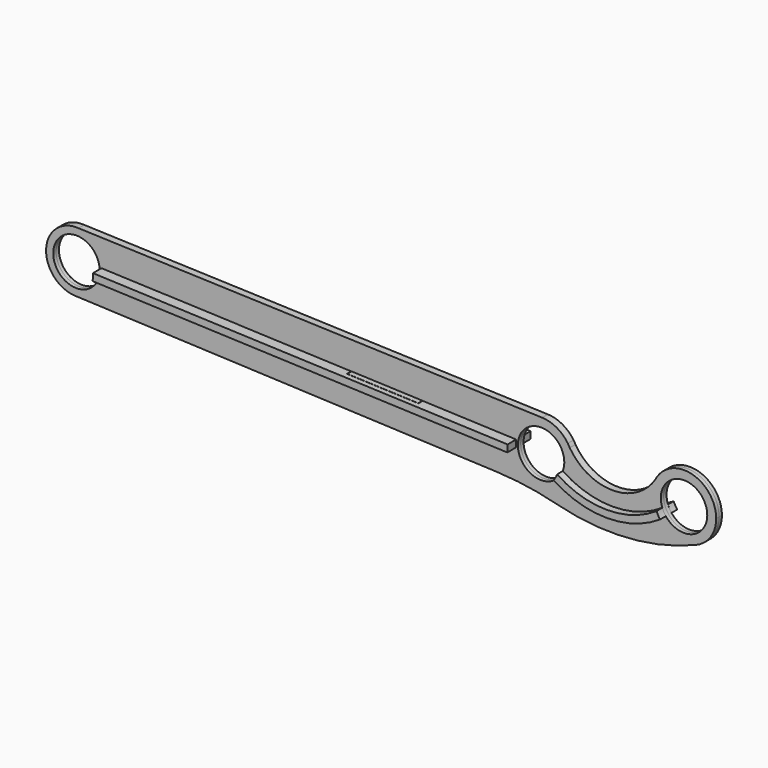
from build123d import *

# Parameters (mm, degrees)
F0_R          = 32.5
F1_DEPTH      = 5
F1_DEPTH_BACK = 5
F5_DEPTH      = 25
F6_DEPTH      = 5
F6_DEPTH_BACK = 5
F4_W          = 99.4
F4_H          = 17.5
F8_DEPTH      = 10


with BuildPart() as f1:
    # F0 (on Front) → F1 (new body, two sides)
    with BuildSketch(Plane.XZ) as f1_sk:
        with BuildLine():
            ThreePointArc((15.2901799608, 39.6542607643), (7.6425019123, 41.0632246714), (0, 42.5))
            ThreePointArc((0, 42.5), (-42.5, 0), (0, -42.5))
            ThreePointArc((0, -42.5), (4.6811187295, -41.9725217651), (9.3634275195, -41.4557140222))
            ThreePointArc((9.3634275195, -41.4557140222), (33.1978588886, -26.535865639), (42.5, 0))
            ThreePointArc((42.5, 0), (35.0434205546, 24.0459700539), (15.2901799608, 39.6542607643))
        make_face()
        Circle(F0_R, mode=Mode.SUBTRACT)
        with BuildLine():
            ThreePointArc((2.9352828897, 42.3985154735), (1.4685183648, 42.474621291), (0, 42.5))
            Line((0, 42.5), (2.9352828897, 42.3985154735))
        make_face()
        with BuildLine():
            Line((2.9352828897, 42.3985154735), (0, 42.5))
            ThreePointArc((0, 42.5), (7.6425019123, 41.0632246714), (15.2901799608, 39.6542607643))
            ThreePointArc((15.2901799608, 39.6542607643), (9.2154548182, 41.488858655), (2.9352828897, 42.3985154735))
        make_face()
        with BuildLine():
            ThreePointArc((9.3634275195, -41.4557140222), (4.6811187295, -41.9725217651), (0, -42.5))
            ThreePointArc((0, -42.5), (4.710740603, -42.238121679), (9.3634275195, -41.4557140222))
        make_face()
        with BuildLine():
            ThreePointArc((9.3634275195, -41.4557140222), (4.710740603, -42.238121679), (0, -42.5))
            Line((0, -42.5), (588.6371870725, -67.4404434194))
            ThreePointArc((588.6371870725, -67.4404434194), (631.0886283847, -71.5145464261), (672.865048635, -80.0850712556))
            ThreePointArc((672.865048635, -80.0850712556), (656.4952738109, -75.3133930433), (640.417736754, -69.6343752639))
            ThreePointArc((640.417736754, -69.6343752639), (325.9734547012, -31.2943752337), (9.3634275195, -41.4557140222))
        make_face()
        with BuildLine():
            Line((651.5549017981, 19.9731284257), (2.9352828897, 42.3985154735))
            ThreePointArc((2.9352828897, 42.3985154735), (9.2154548182, 41.488858655), (15.2901799608, 39.6542607643))
            ThreePointArc((15.2901799608, 39.6542607643), (332.6858335017, 5.9969290407), (651.5549017981, 19.9731284257))
        make_face()
        with BuildLine():
            ThreePointArc((651.5549017981, 19.9731284257), (332.6858335017, 5.9969290407), (15.2901799608, 39.6542607643))
            ThreePointArc((15.2901799608, 39.6542607643), (35.0434205546, 24.0459700539), (42.5, 0))
            ThreePointArc((42.5, 0), (33.1978588886, -26.535865639), (9.3634275195, -41.4557140222))
            ThreePointArc((9.3634275195, -41.4557140222), (325.9734547012, -31.2943752337), (640.417736754, -69.6343752639))
            ThreePointArc((640.417736754, -69.6343752639), (656.4952738109, -75.3133930433), (672.865048635, -80.0850712556))
            ThreePointArc((672.865048635, -80.0850712556), (771.1976399021, -89.262485467), (867.3076923077, -66.5384615385))
            ThreePointArc((867.3076923077, -66.5384615385), (817.0187580388, -55.6143377962), (809.8629915161, -4.652505069))
            ThreePointArc((809.8629915161, -4.652505069), (750, -37.5), (690.1370084839, -4.652505069))
            ThreePointArc((690.1370084839, -4.652505069), (688.7326126754, -2.3520847948), (687.4165738677, 0))
            ThreePointArc((687.4165738677, 0), (671.8957859797, 14.3137960051), (651.5549017981, 19.9731284257))
        make_face()
        with Locations((650, -25)):
            Circle(F0_R, mode=Mode.SUBTRACT)
        with BuildLine():
            ThreePointArc((690.1370084839, -4.652505069), (688.846505438, -2.2854888837), (687.4165738677, 0))
            ThreePointArc((687.4165738677, 0), (688.7326126754, -2.3520847948), (690.1370084839, -4.652505069))
        make_face()
        with BuildLine():
            ThreePointArc((809.8629915161, -4.652505069), (817.0187580388, -55.6143377962), (867.3076923077, -66.5384615385))
            ThreePointArc((867.3076923077, -66.5384615385), (887.4422632452, -49.9615088301), (895, -25))
            ThreePointArc((895, -25), (863.0624304008, 18.0624304008), (812.5834261323, 0))
            ThreePointArc((812.5834261323, 0), (811.2673873246, -2.3520847948), (809.8629915161, -4.652505069))
        make_face()
        with Locations((850, -25)):
            Circle(F0_R, mode=Mode.SUBTRACT)
        with BuildLine():
            ThreePointArc((812.5834261323, 0), (811.153494562, -2.2854888837), (809.8629915161, -4.652505069))
            ThreePointArc((809.8629915161, -4.652505069), (811.2673873246, -2.3520847948), (812.5834261323, 0))
        make_face()
    extrude(amount=F1_DEPTH)
    extrude(f1_sk.sketch, amount=-F1_DEPTH_BACK)

    # F2 (on face) → F5 (cut)
    with BuildSketch(Plane(origin=(0, 5, 0), x_dir=(-1, 0, 0), z_dir=(0, 1, 0))):
        Polygon((-484.9356830803, -13.5976385994), (-484.547508547, -23.6901764632), (-384.421538849, -19.8391776286), (-384.8097133822, -9.7466397649), align=None)
        Polygon((-125.0517710368, 0.2440503253), (-225.1777407349, -3.6069485092), (-224.7895662016, -13.699486373), (-124.6635965036, -9.8484875384), align=None)
    extrude(amount=-F5_DEPTH, mode=Mode.SUBTRACT)


with BuildPart() as f6:
    # F4 (on 3pt) → F6 (new body, two sides)
    with BuildSketch(Plane(origin=(0, 0, 0), x_dir=(0.9992611746, 0, -0.0384331221), z_dir=(-0.0384331221, 0, -0.9992611746))) as f6_sk:
        Polygon((35, 20.1), (35, 5.1), (125, 5.1), (125, -12.4), (225, -12.4), (225, 5.1), (384.7, 5.1), (384.7, 12.7), (484.7, 12.7), (484.7, 5.1), (615.5, 5.1), (615.5, 20.1), align=None)
    extrude(amount=F6_DEPTH)
    extrude(f6_sk.sketch, amount=-F6_DEPTH_BACK)


with BuildPart() as f6b:
    # F4 (on 3pt) → F6, piece 2 (new body, two sides)
    with BuildSketch(Plane(origin=(0, 0, 0), x_dir=(0.9992611746, 0, -0.0384331221), z_dir=(-0.0384331221, 0, -0.9992611746))) as f6_2_sk:
        Polygon((124.7, -5.1), (35, -5.1), (35, -20.1), (615.5, -20.1), (615.5, -5.1), (484.4, -5.1), (385, -5.1), (225.3, -5.1), (225.3, -12.7), (124.7, -12.7), align=None)
        with Locations((434.7, 3.65)):
            Rectangle(F4_W, F4_H)
    extrude(amount=F6_DEPTH)
    extrude(f6_2_sk.sketch, amount=-F6_DEPTH_BACK)


with BuildPart() as f8:
    # F7 (on face) → F8 (new body)
    with BuildSketch(Plane.XZ.offset(5)):
        with BuildLine():
            ThreePointArc((819.5513180488, -36.3634399472), (750, -57.5), (680.4486819512, -36.3634399472))
            ThreePointArc((680.4486819512, -36.3634399472), (678.3309710788, -40.9250142145), (675.5348549099, -45.1052526651))
            ThreePointArc((675.5348549099, -45.1052526651), (750, -67.5000028187), (824.4651450901, -45.1052526651))
            ThreePointArc((824.4651450901, -45.1052526651), (821.6690289212, -40.9250142145), (819.5513180488, -36.3634399472))
        make_face()
    extrude(amount=F8_DEPTH)


with BuildPart() as f9_1:
    # F9: instance of F8
    add(f8.part.mirror(Plane.XZ))


solid = Compound([f1.part, f6.part, f6b.part, f8.part, f9_1.part])
